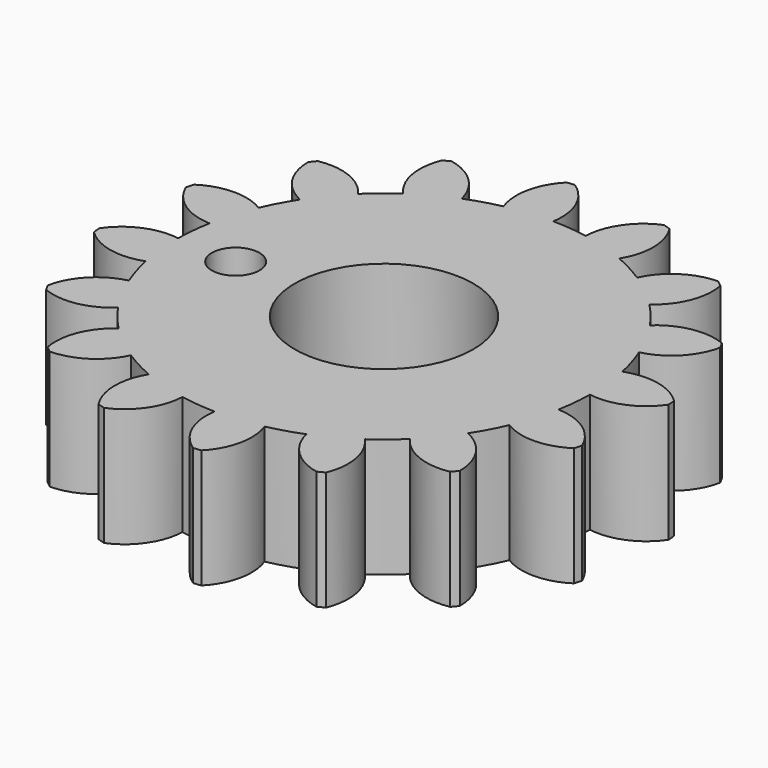
from build123d import *

# Parameters (mm, degrees)
F0_R     = 7.5
F1_DEPTH = 10
F3_COUNT = 16
F3_ANGLE = 337.5
F4_R     = 2.0024063546
F5_DEPTH = 10


with BuildPart() as f1:
    # F0 (on Top) → F1 (new body)
    with BuildSketch(Plane.XY):
        with BuildLine():
            ThreePointArc((-3.6476693986, 17.115621752), (-11.0094456156, -13.6030183135), (17.5, 0))
            ThreePointArc((17.5, 0), (12.4584016864, 12.2897610807), (0.2384882949, 17.4983748769))
            ThreePointArc((0.2384882949, 17.4983748769), (-1.7152999558, 17.4157327168), (-3.6476693986, 17.115621752))
        make_face()
        Circle(F0_R, mode=Mode.SUBTRACT)
        with BuildLine():
            ThreePointArc((-3.6476693986, 17.115621752), (-1.7152999558, 17.4157327168), (0.2384882949, 17.4983748769))
            ThreePointArc((0.2384882949, 17.4983748769), (-0.1063528579, 20.2679092651), (-1.8819552556, 22.4211561793))
            ThreePointArc((-1.8819552556, 22.4211561793), (-2.2053856574, 22.3916563501), (-2.528356566, 22.3574912071))
            ThreePointArc((-2.528356566, 22.3574912071), (-3.8497636276, 19.8992154851), (-3.6476693986, 17.115621752))
        make_face()
    extrude(amount=F1_DEPTH)

    # F3: F1 ×16 about axis
    f3_axis = Axis((0, 0, 13.1933512166), (0, 0, 1))


with BuildPart() as f1_1:
    add(f1.part)
    for i in range(1, F3_COUNT):
        add(f1.part.rotate(f3_axis, i * F3_ANGLE / (F3_COUNT - 1)))

    # F4 (on face) → F5 (cut)
    with BuildSketch(Plane.XY.offset(10)):
        with Locations((-12.467992492, 0)):
            Circle(F4_R)
    extrude(amount=-F5_DEPTH, mode=Mode.SUBTRACT)


solid = f1_1.part
